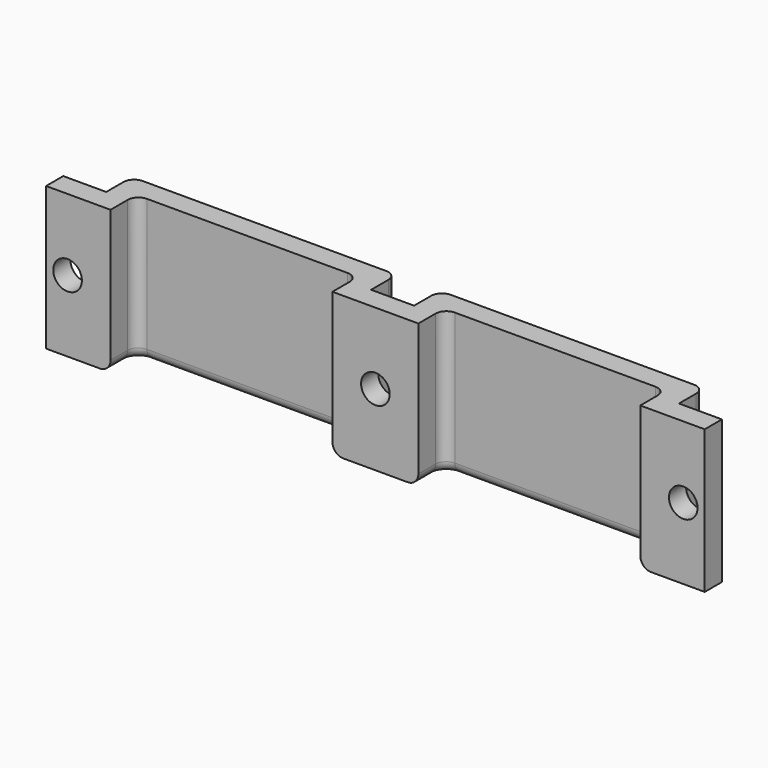
from build123d import *

# Parameters (mm, degrees)
F1_DEPTH = 20
F2_R     = 1.5
F3_R     = 2
F4_DEPTH = 25


with BuildPart() as f1:
    # F0 (on Top) → F1 (new body)
    with BuildSketch(Plane.XY):
        Polygon((-40, -4), (-37, -4), (-37, 0.5), (-6, 0.5), (-6, -4), (6, -4), (6, 0.5), (37, 0.5), (37, -4), (40, -4), (46, -4), (46, -1), (40, -1), (40, 3.5), (3, 3.5), (3, -1), (0, -1), (-3, -1), (-3, 3.5), (-40, 3.5), (-40, -1), (-46, -1), (-46, -4), align=None)
    extrude(amount=F1_DEPTH)

    # F2
    f2_edges = [f1.edges().sort_by_distance(p)[0] for p in [
        (-21.5, 0.5, 0),
        (-37, -1.75, 0),
        (-6, -1.75, 0),
        (6, -1.75, 0),
        (21.5, 0.5, 0),
        (37, -1.75, 0),
        (-40, 3.5, 10),
        (-3, 3.5, 10),
        (3, 3.5, 10),
        (40, 3.5, 10),
        (-37, 0.5, 10),
        (-6, 0.5, 10),
        (6, 0.5, 10),
        (37, 0.5, 10),
    ]]
    fillet(f2_edges, radius=F2_R)

    # F3 (on face) → F4 (cut)
    with BuildSketch(Plane(origin=(0, -1, 0), x_dir=(-1, 0, 0), z_dir=(0, 1, 0))):
        with Locations((-43, 10)):
            Circle(F3_R)
        with Locations((0, 10)):
            Circle(F3_R)
        with Locations((43, 10)):
            Circle(F3_R)
    extrude(amount=-F4_DEPTH, mode=Mode.SUBTRACT)


solid = f1.part
